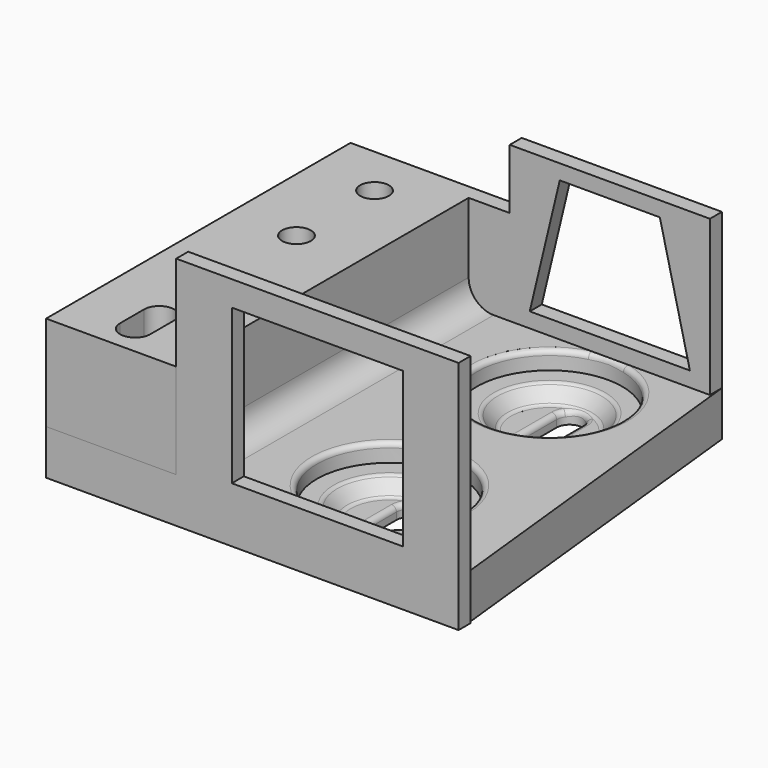
from build123d import *

# Parameters (mm, degrees)
POCKET_DEPTH    = 5
FILLET_R        = 1
FILLET001_R     = 1
FILLET002_R     = 1
SKETCH002_R     = 14.142
PAD_DEPTH       = 9
SKETCH003_W     = 40
SKETCH003_H     = 40
PAD001_DEPTH    = 3
SKETCH004_W     = 47
SKETCH004_H     = 56.425
PAD002_DEPTH    = 3
SKETCH005_W     = 30.9
SKETCH005_H     = 34.2
POCKET001_DEPTH = 3
POCKET002_DEPTH = 3
PAD003_DEPTH    = 9
POCKET003_DEPTH = 5
FILLET003_R     = 1
FILLET004_R     = 1
FILLET005_R     = 1
SKETCH010_W     = 76.042319
SKETCH010_H     = 26
PAD004_DEPTH    = 19
SKETCH011_R     = 2.875
POCKET004_DEPTH = 17
POCKET005_DEPTH = 8
SKETCH013_W     = 3
SKETCH013_H     = 19
PAD005_DEPTH    = 10
SKETCH014_R     = 14.5
POCKET006_DEPTH = 3.6
FILLET006_R     = 1
FILLET007_R     = 5


with BuildPart() as part:
    # Sketch → Revolution (revolve)
    with BuildSketch(Plane.YZ):
        Polygon((0, 0), (14.142, 0), (14.142, 5.4), (10.683, 5.4), (8.165701, 2.4), (0, 2.4), align=None)
    revolve(axis=Axis((0, 0, 0), (0, 0, 1)))

    # Sketch001 (on Face5 of Revolution) → Pocket (cut)
    with BuildSketch(Plane(origin=(0, 0, 2.4), x_dir=(0, -1, 0), z_dir=(0, 0, 1))):
        with BuildLine():
            Line((-5, 2.6), (5, 2.6))
            ThreePointArc((5, -2.6), (7.6, 0), (5, 2.6))
            Line((-5, -2.6), (5, -2.6))
            ThreePointArc((-5, 2.6), (-7.6, 0), (-5, -2.6))
        make_face()
    extrude(amount=-POCKET_DEPTH, mode=Mode.SUBTRACT)

    # Fillet
    fillet_edges = [part.edges().sort_by_distance(p)[0] for p in [
        (0, -8.165701, 2.4),
    ]]
    fillet(fillet_edges, radius=FILLET_R)

    # Fillet001
    fillet001_edges = [part.edges().sort_by_distance(p)[0] for p in [
        (0, 7.6, 2.4),
    ]]
    fillet(fillet001_edges, radius=FILLET001_R)

    # Fillet002
    fillet002_edges = [part.edges().sort_by_distance(p)[0] for p in [
        (0, -10.683, 5.4),
    ]]
    fillet(fillet002_edges, radius=FILLET002_R)

    # Sketch002 (on Face19 of Fillet002) → Pad (join)
    with BuildSketch(Plane.YX):
        Polygon((58.042319, 20), (58.042319, -20), (-18, -28.2125), (-18, 28.2125), align=None)
        Circle(SKETCH002_R, mode=Mode.SUBTRACT)
    extrude(amount=-PAD_DEPTH)

    # Sketch003 (on Face23 of Pad) → Pad001 (join)
    with BuildSketch(Plane.ZX.offset(58.042319)):
        with Locations((20, 0)):
            Rectangle(SKETCH003_W, SKETCH003_H)
    extrude(amount=-PAD001_DEPTH)

    # Sketch004 (on Face23 of Pad001) → Pad002 (join)
    with BuildSketch(Plane(origin=(0, -18, 0), x_dir=(0, 0, -1), z_dir=(0, -1, 0))):
        with Locations((-23.5, 0)):
            Rectangle(SKETCH004_W, SKETCH004_H)
    extrude(amount=-PAD002_DEPTH)

    # Sketch005 (on Face34 of Pad002) → Pocket001 (cut)
    with BuildSketch(Plane(origin=(0, -18, 0), x_dir=(0, 0, -1), z_dir=(0, -1, 0))):
        with Locations((-26.55, 0)):
            Rectangle(SKETCH005_W, SKETCH005_H)
    extrude(amount=-POCKET001_DEPTH, mode=Mode.SUBTRACT)

    # Sketch006 (on Face29 of Pocket001) → Pocket002 (cut)
    with BuildSketch(Plane.ZX.offset(58.042319)):
        Polygon((12, 16), (12, -16), (37, -10), (37, 10), align=None)
    extrude(amount=-POCKET002_DEPTH, mode=Mode.SUBTRACT)

    # Sketch007 (on Face19 of Pocket002) → Pad003 (join)
    with BuildSketch(Plane(origin=(0, 0, 9), x_dir=(0, -1, 0), z_dir=(0, 0, 1))):
        Polygon((18, -28.2125), (-58.042319, -20), (-58.042319, -54.2125), (18, -54.2125), align=None)
    extrude(amount=-PAD003_DEPTH)

    # Sketch008 (on DatumPlane) → Groove (revolve, cut)
    with BuildSketch(Plane.YZ):
        Polygon((25.858, 9), (40, 9), (40, 2.4), (31.834299, 2.4), (29.317, 5.4), (25.858, 5.4), align=None)
    revolve(axis=Axis((0, 40, 9), (0, 0, -1)), mode=Mode.SUBTRACT)

    # Sketch009 (on Face46 of Groove) → Pocket003 (cut)
    with BuildSketch(Plane(origin=(0, 0, 2.4), x_dir=(0, -1, 0), z_dir=(0, 0, 1))):
        with BuildLine():
            Line((-45, 2.6), (-35, 2.6))
            ThreePointArc((-35, -2.6), (-32.4, 0), (-35, 2.6))
            Line((-45, -2.6), (-35, -2.6))
            ThreePointArc((-45, 2.6), (-47.6, 0), (-45, -2.6))
        make_face()
    extrude(amount=-POCKET003_DEPTH, mode=Mode.SUBTRACT)

    # Fillet003
    fillet003_edges = [part.edges().sort_by_distance(p)[0] for p in [
        (0, 48.165701, 2.4),
    ]]
    fillet(fillet003_edges, radius=FILLET003_R)

    # Fillet004
    fillet004_edges = [part.edges().sort_by_distance(p)[0] for p in [
        (2.6, 40, 2.4),
    ]]
    fillet(fillet004_edges, radius=FILLET004_R)

    # Fillet005
    fillet005_edges = [part.edges().sort_by_distance(p)[0] for p in [
        (0, 50.683, 5.4),
    ]]
    fillet(fillet005_edges, radius=FILLET005_R)

    # Sketch010 (on Face19 of Fillet005) → Pad004 (join)
    with BuildSketch(Plane(origin=(0, 0, 9), x_dir=(0, -1, 0), z_dir=(0, 0, 1))):
        with Locations((-20.021159, -41.2125)):
            Rectangle(SKETCH010_W, SKETCH010_H)
    extrude(amount=PAD004_DEPTH)

    # Sketch011 (on Face41 of Pad004) → Pocket004 (cut)
    with BuildSketch(Plane(origin=(0, 0, 28), x_dir=(0, -1, 0), z_dir=(0, 0, 1))):
        with Locations((-47.792319, -41.2125)):
            Circle(SKETCH011_R)
        with Locations((-28.292319, -41.2125)):
            Circle(SKETCH011_R)
    extrude(amount=-POCKET004_DEPTH, mode=Mode.SUBTRACT)

    # Sketch012 (on Face44 of Pocket004) → Pocket005 (cut)
    with BuildSketch(Plane(origin=(0, 0, 28), x_dir=(0, -1, 0), z_dir=(0, 0, 1))):
        with BuildLine():
            ThreePointArc((6, -38.2125), (3, -41.2125), (6, -44.2125))
            Line((6, -44.2125), (12, -44.2125))
            ThreePointArc((12, -44.2125), (15, -41.2125), (12, -38.2125))
            Line((6, -38.2125), (12, -38.2125))
        make_face()
    extrude(amount=-POCKET005_DEPTH, mode=Mode.SUBTRACT)

    # Sketch013 (on Face25 of Pocket004) → Pad005 (join)
    with BuildSketch(Plane.YZ.offset(-28.2125)):
        with Locations((56.542319, 18.5)):
            Rectangle(SKETCH013_W, SKETCH013_H)
    extrude(amount=PAD005_DEPTH)

    # Sketch014 (on Face19 of Pad005) → Pocket006 (cut)
    with BuildSketch(Plane(origin=(0, 0, 9), x_dir=(0, -1, 0), z_dir=(0, 0, 1))):
        with Locations((-40, 0)):
            Circle(SKETCH014_R)
        Circle(SKETCH014_R)
    extrude(amount=-POCKET006_DEPTH, mode=Mode.SUBTRACT)

    # Fillet006
    fillet006_edges = [part.edges().sort_by_distance(p)[0] for p in [
        (0, 14.5, 9),
        (0, 54.5, 9),
    ]]
    fillet(fillet006_edges, radius=FILLET006_R)

    # Fillet007
    fillet007_edges = [part.edges().sort_by_distance(p)[0] for p in [
        (-28.2125, 20.021159, 9),
    ]]
    fillet(fillet007_edges, radius=FILLET007_R)


solid = part.part
